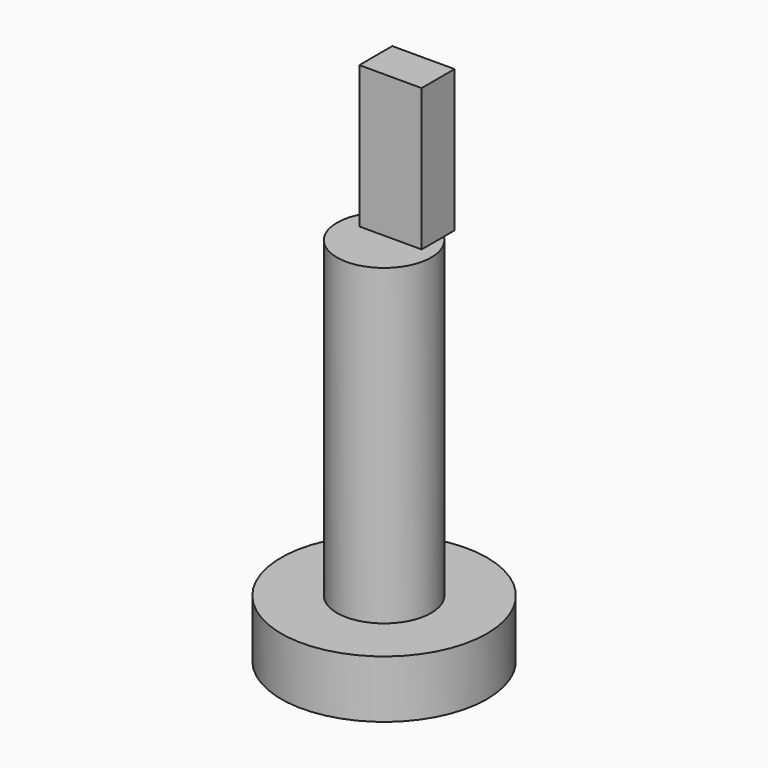
from build123d import *

# Parameters (mm, degrees)
F0_R     = 12.7
F1_DEPTH = 7.112
F2_R     = 5.811931
F3_DEPTH = 38.608
F5_DEPTH = 17.526


with BuildPart() as f1:
    # F0 (on Top) → F1 (new body)
    with BuildSketch(Plane.XY):
        Circle(F0_R)
    extrude(amount=F1_DEPTH)

    # F2 (on face) → F3 (join)
    with BuildSketch(Plane.XY.offset(7.112)):
        Circle(F2_R)
    extrude(amount=F3_DEPTH)

    # F4 (on face) → F5 (join)
    with BuildSketch(Plane.XY.offset(45.72)):
        with BuildLine():
            ThreePointArc((4.041356, 4.176839), (2.179798, 5.387673), (0, 5.811931))
            ThreePointArc((0, 5.811931), (-1.928979, 5.482479), (-3.639269, 4.531475))
            Line((-3.639269, 4.531475), (-3.639269, 0.731931))
            Line((-3.639269, 0.731931), (4.041356, 0.731931))
            Line((4.041356, 0.731931), (4.041356, 4.176839))
        make_face()
        with BuildLine():
            ThreePointArc((-3.639269, 4.531475), (-1.928979, 5.482479), (0, 5.811931))
            Line((0, 5.811931), (-3.639269, 5.811931))
            Line((-3.639269, 5.811931), (-3.639269, 4.531475))
        make_face()
        with BuildLine():
            Line((4.041356, 4.176839), (4.041356, 5.811931))
            Line((4.041356, 5.811931), (0, 5.811931))
            ThreePointArc((0, 5.811931), (2.179798, 5.387673), (4.041356, 4.176839))
        make_face()
    extrude(amount=F5_DEPTH)


solid = f1.part
